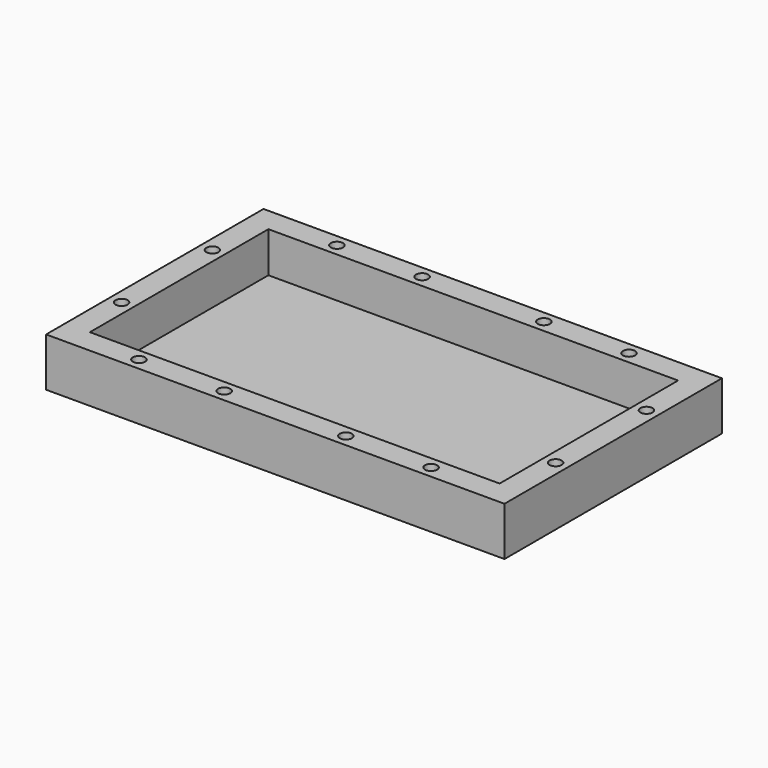
from build123d import *

# Parameters (mm, degrees)
F0_W     = 113
F0_H     = 67
F1_DEPTH = 2
F2_W     = 113
F2_H     = 67
F2_W_2   = 101
F2_H_2   = 55
F3_DEPTH = 10
F4_R     = 1.5
F5_DEPTH = 6.25


with BuildPart() as f1:
    # F0 (on Top) → F1 (new body)
    with BuildSketch(Plane.XY):
        Rectangle(F0_W, F0_H)
    extrude(amount=F1_DEPTH)

    # F2 (on face) → F3 (join)
    with BuildSketch(Plane.XY.offset(2)):
        Rectangle(F2_W, F2_H)
        Rectangle(F2_W_2, F2_H_2, mode=Mode.SUBTRACT)
    extrude(amount=F3_DEPTH)

    # F4 (on face) → F5 (cut)
    with BuildSketch(Plane.XY.offset(12)):
        with Locations((-36, 30.5)):
            Circle(F4_R)
        with Locations((-15, 30.5)):
            Circle(F4_R)
        with Locations((15, 30.5)):
            Circle(F4_R)
        with Locations((36, 30.5)):
            Circle(F4_R)
        with Locations((-15, -30.5)):
            Circle(F4_R)
        with Locations((-36, -30.5)):
            Circle(F4_R)
        with Locations((15, -30.5)):
            Circle(F4_R)
        with Locations((36, -30.5)):
            Circle(F4_R)
        with Locations((-53.5, 14)):
            Circle(F4_R)
        with Locations((-53.5, -14)):
            Circle(F4_R)
        with Locations((53.5, 14)):
            Circle(F4_R)
        with Locations((53.5, -14)):
            Circle(F4_R)
    extrude(amount=-F5_DEPTH, mode=Mode.SUBTRACT)


solid = f1.part
